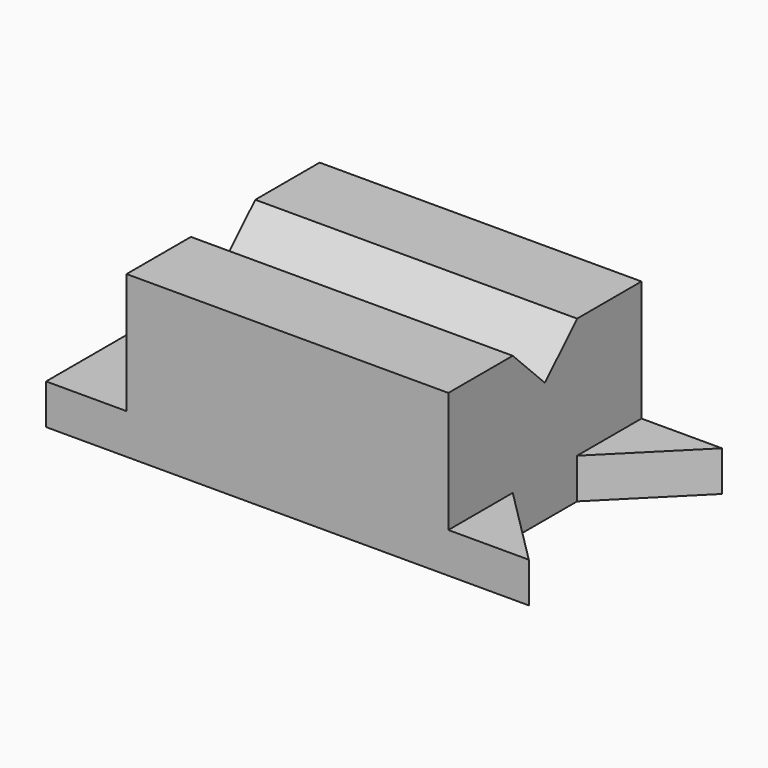
from build123d import *

# Parameters (mm, degrees)
F1_W      = 152.4
F1_H      = 50.8
F2_DEPTH  = 76.2
F3_W      = 25.4
F3_H      = 38.1
F4_DEPTH  = 76.201
F5_W      = 25.4
F5_H      = 38.1
F6_DEPTH  = 76.201
F9_DEPTH  = 12.701
F11_DEPTH = 127.001


with BuildPart() as f2:
    # F1 (on face) → F2 (new body)
    with BuildSketch(Plane.XZ):
        with Locations((-8.853449, 22.809748)):
            Rectangle(F1_W, F1_H)
    extrude(amount=F2_DEPTH)

    # F3 (on face) → F4 (cut, through all)
    with BuildSketch(Plane.XZ.offset(76.2)):
        with Locations((-72.353449, 29.159748)):
            Rectangle(F3_W, F3_H)
    extrude(amount=-F4_DEPTH, mode=Mode.SUBTRACT)

    # F5 (on face) → F6 (cut, through all)
    with BuildSketch(Plane.XZ.offset(76.2)):
        with Locations((54.646551, 29.159748)):
            Rectangle(F5_W, F5_H)
    extrude(amount=-F6_DEPTH, mode=Mode.SUBTRACT)

    # F8 (on face) → F9 (cut, through all)
    with BuildSketch(Plane.XY.offset(10.109748)):
        Polygon((41.946551, -50.8), (67.346551, -76.2), (67.346551, 0), (41.946551, -25.4), align=None)
        Polygon((67.346551, 0), (67.346551, -76.2), (78.186899, -95.031939), (78.186899, -19.507643), align=None)
    extrude(amount=-F9_DEPTH, mode=Mode.SUBTRACT)

    # F10 (on face) → F11 (cut, through all)
    with BuildSketch(Plane.YZ.offset(41.946551)):
        Polygon((-25.4, 48.209748), (-50.8, 48.209748), (-38.1, 35.509748), align=None)
    extrude(amount=-F11_DEPTH, mode=Mode.SUBTRACT)


solid = f2.part
